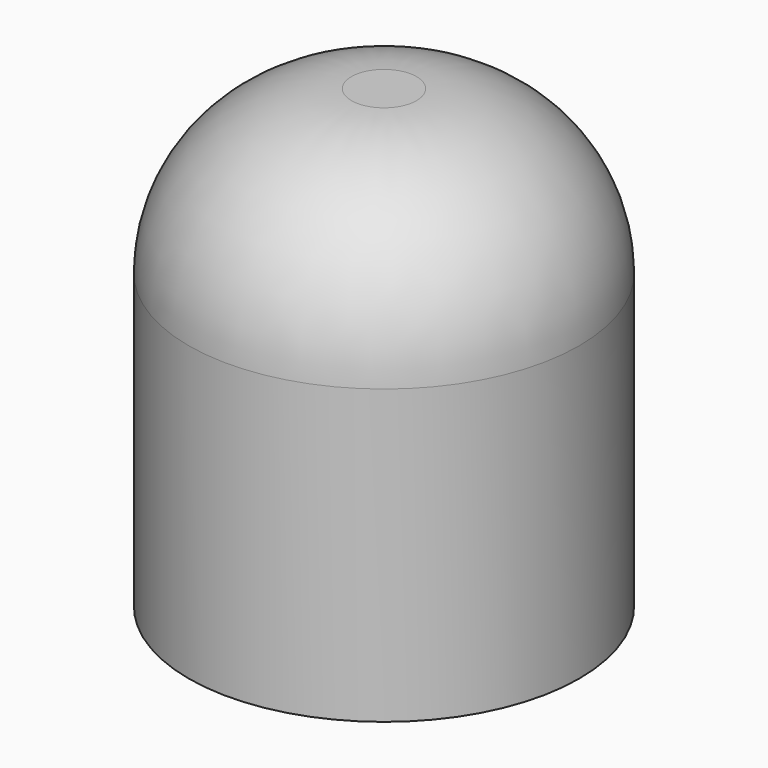
from build123d import *

# Parameters (mm, degrees)
F0_R     = 3
F0_R_2   = 2
F1_DEPTH = 7
F2_DEPTH = 4
F3_R     = 2.5


with BuildPart() as f1:
    # F0 (on Top) → F1 (new body)
    with BuildSketch(Plane.XY):
        Circle(F0_R)
        Circle(F0_R_2, mode=Mode.SUBTRACT)
        Circle(F0_R_2)
    extrude(amount=F1_DEPTH)

    # F0 (on Top) → F2 (cut)
    with BuildSketch(Plane.XY):
        Circle(F0_R_2)
    extrude(amount=F2_DEPTH, mode=Mode.SUBTRACT)

    # F3
    f3_edges = [f1.edges().sort_by_distance(p)[0] for p in [
        (-3, 0, 7),
    ]]
    fillet(f3_edges, radius=F3_R)


solid = f1.part
